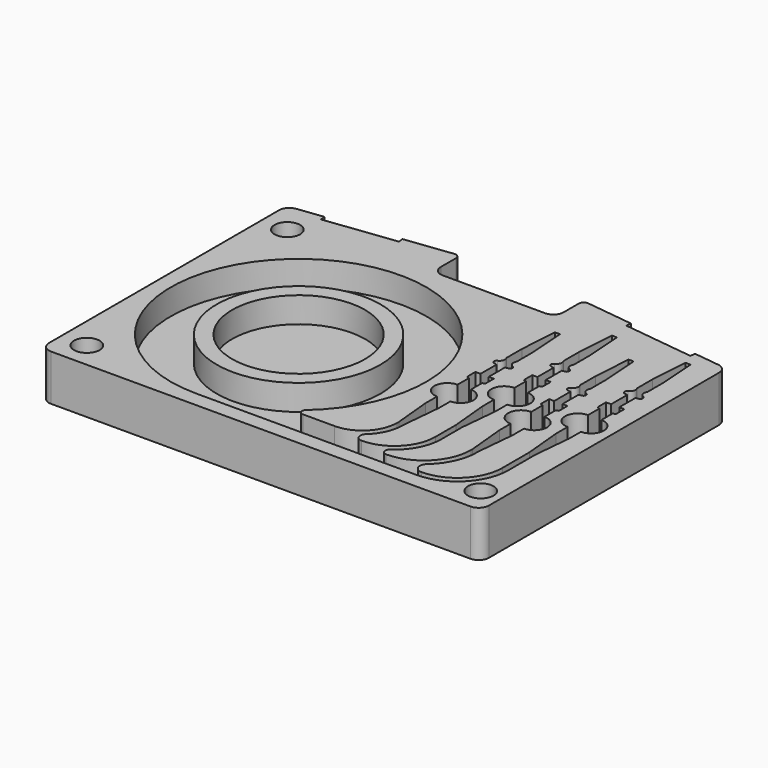
from build123d import *

# Parameters (mm, degrees)
F0_R     = 12.5
F1_DEPTH = 25
F0_R_2   = 80
F0_R_3   = 65
F2_DEPTH = 25
F3_DEPTH = 20


with BuildPart() as f1:
    # F0 (on Top) → F1 (new body)
    with BuildSketch(Plane.XY):
        with BuildLine():
            ThreePointArc((0, 10), (2.928932, 2.928932), (10, 0))
            Line((10, 0), (420, 0))
            ThreePointArc((420, 0), (427.071068, 2.928932), (430, 10))
            Line((430, 10), (430, 291.150957))
            ThreePointArc((430, 291.150957), (427.488892, 297.777909), (421.216699, 301.076663))
            Line((421.216699, 301.076663), (396.093615, 304.156267))
            Line((396.093615, 304.156267), (395.485265, 299.193413))
            Line((395.485265, 299.193413), (326.005322, 307.71031))
            Line((326.005322, 307.71031), (326.613672, 312.673163))
            Line((326.613672, 312.673163), (280.60835, 318.312525))
            ThreePointArc((280.60835, 318.312525), (276.686524, 317.094118), (275, 313.349672))
            Line((275, 313.349672), (275, 295))
            ThreePointArc((275, 295), (272.071068, 287.928932), (265, 285))
            Line((265, 285), (165, 285))
            ThreePointArc((165, 285), (157.928932, 287.928932), (155, 295))
            Line((155, 295), (155, 313.349672))
            ThreePointArc((155, 313.349672), (153.313476, 317.094118), (149.39165, 318.312525))
            Line((149.39165, 318.312525), (103.386328, 312.673163))
            Line((103.386328, 312.673163), (103.994678, 307.71031))
            Line((103.994678, 307.71031), (34.514735, 299.193413))
            Line((34.514735, 299.193413), (33.906385, 304.156267))
            Line((33.906385, 304.156267), (8.783301, 301.076663))
            ThreePointArc((8.783301, 301.076663), (2.511108, 297.777909), (0, 291.150957))
            Line((0, 291.150957), (0, 10))
        make_face()
        with Locations((25, 25)):
            Circle(F0_R, mode=Mode.SUBTRACT)
        with Locations((410, 25)):
            Circle(F0_R, mode=Mode.SUBTRACT)
        with BuildLine():
            Line((290, 75), (286.5, 112))
            Line((286.5, 112), (286.5, 126))
            ThreePointArc((286.5, 126), (274, 138.5), (286.5, 151))
            Line((286.5, 151), (286.5, 165))
            Line((286.5, 165), (285.5, 165))
            ThreePointArc((285.5, 165), (284.43934, 165.43934), (284, 166.5))
            Line((284, 166.5), (284, 176))
            Line((284, 176), (289, 176))
            Line((289, 176), (289, 195.722758))
            Line((289, 195.722758), (286.078298, 196.222758))
            ThreePointArc((286.078298, 196.222758), (284.015065, 198.412894), (285.55146, 201))
            ThreePointArc((285.55146, 201), (288.670146, 204.420181), (288, 209))
            Line((288, 209), (288, 228))
            Line((288, 228), (290.5, 265))
            Line((290.5, 265), (295.5, 265))
            Line((295.5, 265), (298, 228))
            Line((298, 228), (298, 209))
            ThreePointArc((298, 209), (297.329854, 204.420181), (300.44854, 201))
            ThreePointArc((300.44854, 201), (301.984935, 198.412894), (299.921702, 196.222758))
            Line((299.921702, 196.222758), (297, 195.722758))
            Line((297, 195.722758), (297, 176))
            Line((297, 176), (302, 176))
            Line((302, 176), (302, 166.5))
            ThreePointArc((302, 166.5), (301.56066, 165.43934), (300.5, 165))
            Line((300.5, 165), (299.5, 165))
            Line((299.5, 165), (299.5, 151))
            ThreePointArc((299.5, 151), (312, 138.5), (299.5, 126))
            Line((299.5, 126), (299.5, 112))
            Line((299.5, 112), (296, 75))
            Line((296, 75), (296, 73))
            ThreePointArc((296, 73), (292.628127, 56.925786), (283.080983, 43.561583))
            ThreePointArc((283.080983, 43.561583), (281.531814, 36.873407), (287.2, 33))
            ThreePointArc((287.2, 33), (315.484271, 44.715729), (327.2, 73))
            Line((327.2, 73), (327.2, 98))
            Line((327.2, 98), (323.7, 135))
            Line((323.7, 135), (323.7, 149))
            ThreePointArc((323.7, 149), (311.2, 161.5), (323.7, 174))
            Line((323.7, 174), (323.7, 188))
            Line((323.7, 188), (322.7, 188))
            ThreePointArc((322.7, 188), (321.63934, 188.43934), (321.2, 189.5))
            Line((321.2, 189.5), (321.2, 199))
            Line((321.2, 199), (326.2, 199))
            Line((326.2, 199), (326.2, 218.722758))
            Line((326.2, 218.722758), (323.278298, 219.222758))
            ThreePointArc((323.278298, 219.222758), (321.215065, 221.412894), (322.75146, 224))
            ThreePointArc((322.75146, 224), (325.870146, 227.420181), (325.2, 232))
            Line((325.2, 232), (325.2, 251))
            Line((325.2, 251), (327.7, 288))
            Line((327.7, 288), (332.7, 288))
            Line((332.7, 288), (335.2, 251))
            Line((335.2, 251), (335.2, 232))
            ThreePointArc((335.2, 232), (334.529854, 227.420181), (337.64854, 224))
            ThreePointArc((337.64854, 224), (339.184935, 221.412894), (337.121702, 219.222758))
            Line((337.121702, 219.222758), (334.2, 218.722758))
            Line((334.2, 218.722758), (334.2, 199))
            Line((334.2, 199), (339.2, 199))
            Line((339.2, 199), (339.2, 189.5))
            ThreePointArc((339.2, 189.5), (338.76066, 188.43934), (337.7, 188))
            Line((337.7, 188), (336.7, 188))
            Line((336.7, 188), (336.7, 174))
            ThreePointArc((336.7, 174), (349.2, 161.5), (336.7, 149))
            Line((336.7, 149), (336.7, 135))
            Line((336.7, 135), (333.2, 98))
            Line((333.2, 98), (333.2, 73))
            ThreePointArc((333.2, 73), (327.958812, 51.675853), (313.429599, 35.211005))
            ThreePointArc((313.429599, 35.211005), (311.698036, 30.161124), (316, 27))
            ThreePointArc((316, 27), (348.526912, 40.473088), (362, 73))
            Line((362, 73), (362, 75))
            Line((362, 75), (358.5, 112))
            Line((358.5, 112), (358.5, 126))
            ThreePointArc((358.5, 126), (346, 138.5), (358.5, 151))
            Line((358.5, 151), (358.5, 165))
            Line((358.5, 165), (357.5, 165))
            ThreePointArc((357.5, 165), (356.43934, 165.43934), (356, 166.5))
            Line((356, 166.5), (356, 176))
            Line((356, 176), (361, 176))
            Line((361, 176), (361, 195.722758))
            Line((361, 195.722758), (358.078298, 196.222758))
            ThreePointArc((358.078298, 196.222758), (356.015065, 198.412894), (357.55146, 201))
            ThreePointArc((357.55146, 201), (360.670146, 204.420181), (360, 209))
            Line((360, 209), (360, 228))
            Line((360, 228), (362.5, 265))
            Line((362.5, 265), (367.5, 265))
            Line((367.5, 265), (370, 228))
            Line((370, 228), (370, 209))
            ThreePointArc((370, 209), (369.329854, 204.420181), (372.44854, 201))
            ThreePointArc((372.44854, 201), (373.984935, 198.412894), (371.921702, 196.222758))
            Line((371.921702, 196.222758), (369, 195.722758))
            Line((369, 195.722758), (369, 176))
            Line((369, 176), (374, 176))
            Line((374, 176), (374, 166.5))
            ThreePointArc((374, 166.5), (373.56066, 165.43934), (372.5, 165))
            Line((372.5, 165), (371.5, 165))
            Line((371.5, 165), (371.5, 151))
            ThreePointArc((371.5, 151), (384, 138.5), (371.5, 126))
            Line((371.5, 126), (371.5, 112))
            Line((371.5, 112), (368, 75))
            Line((368, 75), (368, 73))
            ThreePointArc((368, 73), (363.375245, 51.56204), (350.32361, 33.937361))
            ThreePointArc((350.32361, 33.937361), (348.287069, 25.782049), (355.2, 21))
            ThreePointArc((355.2, 21), (386.312698, 33.887302), (399.2, 65))
            Line((399.2, 65), (399.2, 98))
            Line((399.2, 98), (395.7, 135))
            Line((395.7, 135), (395.7, 149))
            ThreePointArc((395.7, 149), (383.2, 161.5), (395.7, 174))
            Line((395.7, 174), (395.7, 188))
            Line((395.7, 188), (394.7, 188))
            ThreePointArc((394.7, 188), (393.63934, 188.43934), (393.2, 189.5))
            Line((393.2, 189.5), (393.2, 199))
            Line((393.2, 199), (398.2, 199))
            Line((398.2, 199), (398.2, 218.722758))
            Line((398.2, 218.722758), (395.278298, 219.222758))
            ThreePointArc((395.278298, 219.222758), (393.215065, 221.412894), (394.75146, 224))
            ThreePointArc((394.75146, 224), (397.870146, 227.420181), (397.2, 232))
            Line((397.2, 232), (397.2, 251))
            Line((397.2, 251), (399.7, 288))
            Line((399.7, 288), (404.7, 288))
            Line((404.7, 288), (407.2, 251))
            Line((407.2, 251), (407.2, 232))
            ThreePointArc((407.2, 232), (406.529854, 227.420181), (409.64854, 224))
            ThreePointArc((409.64854, 224), (411.184935, 221.412894), (409.121702, 219.222758))
            Line((409.121702, 219.222758), (406.2, 218.722758))
            Line((406.2, 218.722758), (406.2, 199))
            Line((406.2, 199), (411.2, 199))
            Line((411.2, 199), (411.2, 189.5))
            ThreePointArc((411.2, 189.5), (410.76066, 188.43934), (409.7, 188))
            Line((409.7, 188), (408.7, 188))
            Line((408.7, 188), (408.7, 174))
            ThreePointArc((408.7, 174), (421.2, 161.5), (408.7, 149))
            Line((408.7, 149), (408.7, 135))
            Line((408.7, 135), (405.2, 98))
            Line((405.2, 98), (405.2, 65))
            ThreePointArc((405.2, 65), (390.555339, 29.644661), (355.2, 15))
            Line((355.2, 15), (140, 15))
            ThreePointArc((140, 15), (95.977455, 256.991519), (222.404231, 46.007752))
            ThreePointArc((222.404231, 46.007752), (221.297438, 41.591279), (225.041167, 39))
            Line((225.041167, 39), (256, 39))
            ThreePointArc((256, 39), (280.041631, 48.958369), (290, 73))
            Line((290, 73), (290, 75))
        make_face(mode=Mode.SUBTRACT)
        with Locations((25, 270)):
            Circle(F0_R, mode=Mode.SUBTRACT)
    extrude(amount=F1_DEPTH)



with BuildPart() as f2:
    # F0 (on Top) → F2 (new body)
    with BuildSketch(Plane.XY):
        with Locations((140, 140)):
            Circle(F0_R_2)
        with Locations((140, 140)):
            Circle(F0_R_3, mode=Mode.SUBTRACT)
    extrude(amount=F2_DEPTH)


with BuildPart() as f1_1:
    add(f1.part)

    add(f2.part)  # F3 merges F2
    # F0 (on Top) → F3 (join)
    with BuildSketch(Plane.XY):
        with BuildLine():
            ThreePointArc((0, 10), (2.928932, 2.928932), (10, 0))
            Line((10, 0), (420, 0))
            ThreePointArc((420, 0), (427.071068, 2.928932), (430, 10))
            Line((430, 10), (430, 291.150957))
            ThreePointArc((430, 291.150957), (427.488892, 297.777909), (421.216699, 301.076663))
            Line((421.216699, 301.076663), (396.093615, 304.156267))
            Line((396.093615, 304.156267), (395.485265, 299.193413))
            Line((395.485265, 299.193413), (326.005322, 307.71031))
            Line((326.005322, 307.71031), (326.613672, 312.673163))
            Line((326.613672, 312.673163), (280.60835, 318.312525))
            ThreePointArc((280.60835, 318.312525), (276.686524, 317.094118), (275, 313.349672))
            Line((275, 313.349672), (275, 295))
            ThreePointArc((275, 295), (272.071068, 287.928932), (265, 285))
            Line((265, 285), (165, 285))
            ThreePointArc((165, 285), (157.928932, 287.928932), (155, 295))
            Line((155, 295), (155, 313.349672))
            ThreePointArc((155, 313.349672), (153.313476, 317.094118), (149.39165, 318.312525))
            Line((149.39165, 318.312525), (103.386328, 312.673163))
            Line((103.386328, 312.673163), (103.994678, 307.71031))
            Line((103.994678, 307.71031), (34.514735, 299.193413))
            Line((34.514735, 299.193413), (33.906385, 304.156267))
            Line((33.906385, 304.156267), (8.783301, 301.076663))
            ThreePointArc((8.783301, 301.076663), (2.511108, 297.777909), (0, 291.150957))
            Line((0, 291.150957), (0, 10))
        make_face()
        with Locations((25, 25)):
            Circle(F0_R, mode=Mode.SUBTRACT)
        with Locations((410, 25)):
            Circle(F0_R, mode=Mode.SUBTRACT)
        with BuildLine():
            Line((290, 75), (286.5, 112))
            Line((286.5, 112), (286.5, 126))
            ThreePointArc((286.5, 126), (274, 138.5), (286.5, 151))
            Line((286.5, 151), (286.5, 165))
            Line((286.5, 165), (285.5, 165))
            ThreePointArc((285.5, 165), (284.43934, 165.43934), (284, 166.5))
            Line((284, 166.5), (284, 176))
            Line((284, 176), (289, 176))
            Line((289, 176), (289, 195.722758))
            Line((289, 195.722758), (286.078298, 196.222758))
            ThreePointArc((286.078298, 196.222758), (284.015065, 198.412894), (285.55146, 201))
            ThreePointArc((285.55146, 201), (288.670146, 204.420181), (288, 209))
            Line((288, 209), (288, 228))
            Line((288, 228), (290.5, 265))
            Line((290.5, 265), (295.5, 265))
            Line((295.5, 265), (298, 228))
            Line((298, 228), (298, 209))
            ThreePointArc((298, 209), (297.329854, 204.420181), (300.44854, 201))
            ThreePointArc((300.44854, 201), (301.984935, 198.412894), (299.921702, 196.222758))
            Line((299.921702, 196.222758), (297, 195.722758))
            Line((297, 195.722758), (297, 176))
            Line((297, 176), (302, 176))
            Line((302, 176), (302, 166.5))
            ThreePointArc((302, 166.5), (301.56066, 165.43934), (300.5, 165))
            Line((300.5, 165), (299.5, 165))
            Line((299.5, 165), (299.5, 151))
            ThreePointArc((299.5, 151), (312, 138.5), (299.5, 126))
            Line((299.5, 126), (299.5, 112))
            Line((299.5, 112), (296, 75))
            Line((296, 75), (296, 73))
            ThreePointArc((296, 73), (292.628127, 56.925786), (283.080983, 43.561583))
            ThreePointArc((283.080983, 43.561583), (281.531814, 36.873407), (287.2, 33))
            ThreePointArc((287.2, 33), (315.484271, 44.715729), (327.2, 73))
            Line((327.2, 73), (327.2, 98))
            Line((327.2, 98), (323.7, 135))
            Line((323.7, 135), (323.7, 149))
            ThreePointArc((323.7, 149), (311.2, 161.5), (323.7, 174))
            Line((323.7, 174), (323.7, 188))
            Line((323.7, 188), (322.7, 188))
            ThreePointArc((322.7, 188), (321.63934, 188.43934), (321.2, 189.5))
            Line((321.2, 189.5), (321.2, 199))
            Line((321.2, 199), (326.2, 199))
            Line((326.2, 199), (326.2, 218.722758))
            Line((326.2, 218.722758), (323.278298, 219.222758))
            ThreePointArc((323.278298, 219.222758), (321.215065, 221.412894), (322.75146, 224))
            ThreePointArc((322.75146, 224), (325.870146, 227.420181), (325.2, 232))
            Line((325.2, 232), (325.2, 251))
            Line((325.2, 251), (327.7, 288))
            Line((327.7, 288), (332.7, 288))
            Line((332.7, 288), (335.2, 251))
            Line((335.2, 251), (335.2, 232))
            ThreePointArc((335.2, 232), (334.529854, 227.420181), (337.64854, 224))
            ThreePointArc((337.64854, 224), (339.184935, 221.412894), (337.121702, 219.222758))
            Line((337.121702, 219.222758), (334.2, 218.722758))
            Line((334.2, 218.722758), (334.2, 199))
            Line((334.2, 199), (339.2, 199))
            Line((339.2, 199), (339.2, 189.5))
            ThreePointArc((339.2, 189.5), (338.76066, 188.43934), (337.7, 188))
            Line((337.7, 188), (336.7, 188))
            Line((336.7, 188), (336.7, 174))
            ThreePointArc((336.7, 174), (349.2, 161.5), (336.7, 149))
            Line((336.7, 149), (336.7, 135))
            Line((336.7, 135), (333.2, 98))
            Line((333.2, 98), (333.2, 73))
            ThreePointArc((333.2, 73), (327.958812, 51.675853), (313.429599, 35.211005))
            ThreePointArc((313.429599, 35.211005), (311.698036, 30.161124), (316, 27))
            ThreePointArc((316, 27), (348.526912, 40.473088), (362, 73))
            Line((362, 73), (362, 75))
            Line((362, 75), (358.5, 112))
            Line((358.5, 112), (358.5, 126))
            ThreePointArc((358.5, 126), (346, 138.5), (358.5, 151))
            Line((358.5, 151), (358.5, 165))
            Line((358.5, 165), (357.5, 165))
            ThreePointArc((357.5, 165), (356.43934, 165.43934), (356, 166.5))
            Line((356, 166.5), (356, 176))
            Line((356, 176), (361, 176))
            Line((361, 176), (361, 195.722758))
            Line((361, 195.722758), (358.078298, 196.222758))
            ThreePointArc((358.078298, 196.222758), (356.015065, 198.412894), (357.55146, 201))
            ThreePointArc((357.55146, 201), (360.670146, 204.420181), (360, 209))
            Line((360, 209), (360, 228))
            Line((360, 228), (362.5, 265))
            Line((362.5, 265), (367.5, 265))
            Line((367.5, 265), (370, 228))
            Line((370, 228), (370, 209))
            ThreePointArc((370, 209), (369.329854, 204.420181), (372.44854, 201))
            ThreePointArc((372.44854, 201), (373.984935, 198.412894), (371.921702, 196.222758))
            Line((371.921702, 196.222758), (369, 195.722758))
            Line((369, 195.722758), (369, 176))
            Line((369, 176), (374, 176))
            Line((374, 176), (374, 166.5))
            ThreePointArc((374, 166.5), (373.56066, 165.43934), (372.5, 165))
            Line((372.5, 165), (371.5, 165))
            Line((371.5, 165), (371.5, 151))
            ThreePointArc((371.5, 151), (384, 138.5), (371.5, 126))
            Line((371.5, 126), (371.5, 112))
            Line((371.5, 112), (368, 75))
            Line((368, 75), (368, 73))
            ThreePointArc((368, 73), (363.375245, 51.56204), (350.32361, 33.937361))
            ThreePointArc((350.32361, 33.937361), (348.287069, 25.782049), (355.2, 21))
            ThreePointArc((355.2, 21), (386.312698, 33.887302), (399.2, 65))
            Line((399.2, 65), (399.2, 98))
            Line((399.2, 98), (395.7, 135))
            Line((395.7, 135), (395.7, 149))
            ThreePointArc((395.7, 149), (383.2, 161.5), (395.7, 174))
            Line((395.7, 174), (395.7, 188))
            Line((395.7, 188), (394.7, 188))
            ThreePointArc((394.7, 188), (393.63934, 188.43934), (393.2, 189.5))
            Line((393.2, 189.5), (393.2, 199))
            Line((393.2, 199), (398.2, 199))
            Line((398.2, 199), (398.2, 218.722758))
            Line((398.2, 218.722758), (395.278298, 219.222758))
            ThreePointArc((395.278298, 219.222758), (393.215065, 221.412894), (394.75146, 224))
            ThreePointArc((394.75146, 224), (397.870146, 227.420181), (397.2, 232))
            Line((397.2, 232), (397.2, 251))
            Line((397.2, 251), (399.7, 288))
            Line((399.7, 288), (404.7, 288))
            Line((404.7, 288), (407.2, 251))
            Line((407.2, 251), (407.2, 232))
            ThreePointArc((407.2, 232), (406.529854, 227.420181), (409.64854, 224))
            ThreePointArc((409.64854, 224), (411.184935, 221.412894), (409.121702, 219.222758))
            Line((409.121702, 219.222758), (406.2, 218.722758))
            Line((406.2, 218.722758), (406.2, 199))
            Line((406.2, 199), (411.2, 199))
            Line((411.2, 199), (411.2, 189.5))
            ThreePointArc((411.2, 189.5), (410.76066, 188.43934), (409.7, 188))
            Line((409.7, 188), (408.7, 188))
            Line((408.7, 188), (408.7, 174))
            ThreePointArc((408.7, 174), (421.2, 161.5), (408.7, 149))
            Line((408.7, 149), (408.7, 135))
            Line((408.7, 135), (405.2, 98))
            Line((405.2, 98), (405.2, 65))
            ThreePointArc((405.2, 65), (390.555339, 29.644661), (355.2, 15))
            Line((355.2, 15), (140, 15))
            ThreePointArc((140, 15), (95.977455, 256.991519), (222.404231, 46.007752))
            ThreePointArc((222.404231, 46.007752), (221.297438, 41.591279), (225.041167, 39))
            Line((225.041167, 39), (256, 39))
            ThreePointArc((256, 39), (280.041631, 48.958369), (290, 73))
            Line((290, 73), (290, 75))
        make_face(mode=Mode.SUBTRACT)
        with Locations((25, 270)):
            Circle(F0_R, mode=Mode.SUBTRACT)
        with BuildLine():
            Line((286.5, 126), (286.5, 112))
            Line((286.5, 112), (290, 75))
            Line((290, 75), (290, 73))
            ThreePointArc((290, 73), (280.041631, 48.958369), (256, 39))
            Line((256, 39), (225.041167, 39))
            ThreePointArc((225.041167, 39), (221.297438, 41.591279), (222.404231, 46.007752))
            ThreePointArc((222.404231, 46.007752), (95.977455, 256.991519), (140, 15))
            Line((140, 15), (355.2, 15))
            ThreePointArc((355.2, 15), (390.555339, 29.644661), (405.2, 65))
            Line((405.2, 65), (405.2, 98))
            Line((405.2, 98), (408.7, 135))
            Line((408.7, 135), (408.7, 149))
            ThreePointArc((408.7, 149), (421.2, 161.5), (408.7, 174))
            Line((408.7, 174), (408.7, 188))
            Line((408.7, 188), (409.7, 188))
            ThreePointArc((409.7, 188), (410.76066, 188.43934), (411.2, 189.5))
            Line((411.2, 189.5), (411.2, 199))
            Line((411.2, 199), (406.2, 199))
            Line((406.2, 199), (406.2, 218.722758))
            Line((406.2, 218.722758), (409.121702, 219.222758))
            ThreePointArc((409.121702, 219.222758), (411.184935, 221.412894), (409.64854, 224))
            ThreePointArc((409.64854, 224), (406.529854, 227.420181), (407.2, 232))
            Line((407.2, 232), (407.2, 251))
            Line((407.2, 251), (404.7, 288))
            Line((404.7, 288), (399.7, 288))
            Line((399.7, 288), (397.2, 251))
            Line((397.2, 251), (397.2, 232))
            ThreePointArc((397.2, 232), (397.870146, 227.420181), (394.75146, 224))
            ThreePointArc((394.75146, 224), (393.215065, 221.412894), (395.278298, 219.222758))
            Line((395.278298, 219.222758), (398.2, 218.722758))
            Line((398.2, 218.722758), (398.2, 199))
            Line((398.2, 199), (393.2, 199))
            Line((393.2, 199), (393.2, 189.5))
            ThreePointArc((393.2, 189.5), (393.63934, 188.43934), (394.7, 188))
            Line((394.7, 188), (395.7, 188))
            Line((395.7, 188), (395.7, 174))
            ThreePointArc((395.7, 174), (383.2, 161.5), (395.7, 149))
            Line((395.7, 149), (395.7, 135))
            Line((395.7, 135), (399.2, 98))
            Line((399.2, 98), (399.2, 65))
            ThreePointArc((399.2, 65), (386.312698, 33.887302), (355.2, 21))
            ThreePointArc((355.2, 21), (348.287069, 25.782049), (350.32361, 33.937361))
            ThreePointArc((350.32361, 33.937361), (363.375245, 51.56204), (368, 73))
            Line((368, 73), (368, 75))
            Line((368, 75), (371.5, 112))
            Line((371.5, 112), (371.5, 126))
            ThreePointArc((371.5, 126), (384, 138.5), (371.5, 151))
            Line((371.5, 151), (371.5, 165))
            Line((371.5, 165), (372.5, 165))
            ThreePointArc((372.5, 165), (373.56066, 165.43934), (374, 166.5))
            Line((374, 166.5), (374, 176))
            Line((374, 176), (369, 176))
            Line((369, 176), (369, 195.722758))
            Line((369, 195.722758), (371.921702, 196.222758))
            ThreePointArc((371.921702, 196.222758), (373.984935, 198.412894), (372.44854, 201))
            ThreePointArc((372.44854, 201), (369.329854, 204.420181), (370, 209))
            Line((370, 209), (370, 228))
            Line((370, 228), (367.5, 265))
            Line((367.5, 265), (362.5, 265))
            Line((362.5, 265), (360, 228))
            Line((360, 228), (360, 209))
            ThreePointArc((360, 209), (360.670146, 204.420181), (357.55146, 201))
            ThreePointArc((357.55146, 201), (356.015065, 198.412894), (358.078298, 196.222758))
            Line((358.078298, 196.222758), (361, 195.722758))
            Line((361, 195.722758), (361, 176))
            Line((361, 176), (356, 176))
            Line((356, 176), (356, 166.5))
            ThreePointArc((356, 166.5), (356.43934, 165.43934), (357.5, 165))
            Line((357.5, 165), (358.5, 165))
            Line((358.5, 165), (358.5, 151))
            ThreePointArc((358.5, 151), (346, 138.5), (358.5, 126))
            Line((358.5, 126), (358.5, 112))
            Line((358.5, 112), (362, 75))
            Line((362, 75), (362, 73))
            ThreePointArc((362, 73), (348.526912, 40.473088), (316, 27))
            ThreePointArc((316, 27), (311.698036, 30.161124), (313.429599, 35.211005))
            ThreePointArc((313.429599, 35.211005), (327.958812, 51.675853), (333.2, 73))
            Line((333.2, 73), (333.2, 98))
            Line((333.2, 98), (336.7, 135))
            Line((336.7, 135), (336.7, 149))
            ThreePointArc((336.7, 149), (349.2, 161.5), (336.7, 174))
            Line((336.7, 174), (336.7, 188))
            Line((336.7, 188), (337.7, 188))
            ThreePointArc((337.7, 188), (338.76066, 188.43934), (339.2, 189.5))
            Line((339.2, 189.5), (339.2, 199))
            Line((339.2, 199), (334.2, 199))
            Line((334.2, 199), (334.2, 218.722758))
            Line((334.2, 218.722758), (337.121702, 219.222758))
            ThreePointArc((337.121702, 219.222758), (339.184935, 221.412894), (337.64854, 224))
            ThreePointArc((337.64854, 224), (334.529854, 227.420181), (335.2, 232))
            Line((335.2, 232), (335.2, 251))
            Line((335.2, 251), (332.7, 288))
            Line((332.7, 288), (327.7, 288))
            Line((327.7, 288), (325.2, 251))
            Line((325.2, 251), (325.2, 232))
            ThreePointArc((325.2, 232), (325.870146, 227.420181), (322.75146, 224))
            ThreePointArc((322.75146, 224), (321.215065, 221.412894), (323.278298, 219.222758))
            Line((323.278298, 219.222758), (326.2, 218.722758))
            Line((326.2, 218.722758), (326.2, 199))
            Line((326.2, 199), (321.2, 199))
            Line((321.2, 199), (321.2, 189.5))
            ThreePointArc((321.2, 189.5), (321.63934, 188.43934), (322.7, 188))
            Line((322.7, 188), (323.7, 188))
            Line((323.7, 188), (323.7, 174))
            ThreePointArc((323.7, 174), (311.2, 161.5), (323.7, 149))
            Line((323.7, 149), (323.7, 135))
            Line((323.7, 135), (327.2, 98))
            Line((327.2, 98), (327.2, 73))
            ThreePointArc((327.2, 73), (315.484271, 44.715729), (287.2, 33))
            ThreePointArc((287.2, 33), (281.531814, 36.873407), (283.080983, 43.561583))
            ThreePointArc((283.080983, 43.561583), (292.628127, 56.925786), (296, 73))
            Line((296, 73), (296, 75))
            Line((296, 75), (299.5, 112))
            Line((299.5, 112), (299.5, 126))
            ThreePointArc((299.5, 126), (312, 138.5), (299.5, 151))
            Line((299.5, 151), (299.5, 165))
            Line((299.5, 165), (300.5, 165))
            ThreePointArc((300.5, 165), (301.56066, 165.43934), (302, 166.5))
            Line((302, 166.5), (302, 176))
            Line((302, 176), (297, 176))
            Line((297, 176), (297, 195.722758))
            Line((297, 195.722758), (299.921702, 196.222758))
            ThreePointArc((299.921702, 196.222758), (301.984935, 198.412894), (300.44854, 201))
            ThreePointArc((300.44854, 201), (297.329854, 204.420181), (298, 209))
            Line((298, 209), (298, 228))
            Line((298, 228), (295.5, 265))
            Line((295.5, 265), (290.5, 265))
            Line((290.5, 265), (288, 228))
            Line((288, 228), (288, 209))
            ThreePointArc((288, 209), (288.670146, 204.420181), (285.55146, 201))
            ThreePointArc((285.55146, 201), (284.015065, 198.412894), (286.078298, 196.222758))
            Line((286.078298, 196.222758), (289, 195.722758))
            Line((289, 195.722758), (289, 176))
            Line((289, 176), (284, 176))
            Line((284, 176), (284, 166.5))
            ThreePointArc((284, 166.5), (284.43934, 165.43934), (285.5, 165))
            Line((285.5, 165), (286.5, 165))
            Line((286.5, 165), (286.5, 151))
            ThreePointArc((286.5, 151), (274, 138.5), (286.5, 126))
        make_face()
        with Locations((140, 140)):
            Circle(F0_R_2, mode=Mode.SUBTRACT)
        with Locations((140, 140)):
            Circle(F0_R_2)
        with Locations((140, 140)):
            Circle(F0_R_3, mode=Mode.SUBTRACT)
        with Locations((140, 140)):
            Circle(F0_R_3)
        with Locations((25, 270)):
            Circle(F0_R)
        with Locations((25, 25)):
            Circle(F0_R)
        with Locations((410, 25)):
            Circle(F0_R)
    extrude(amount=-F3_DEPTH)


solid = f1_1.part
